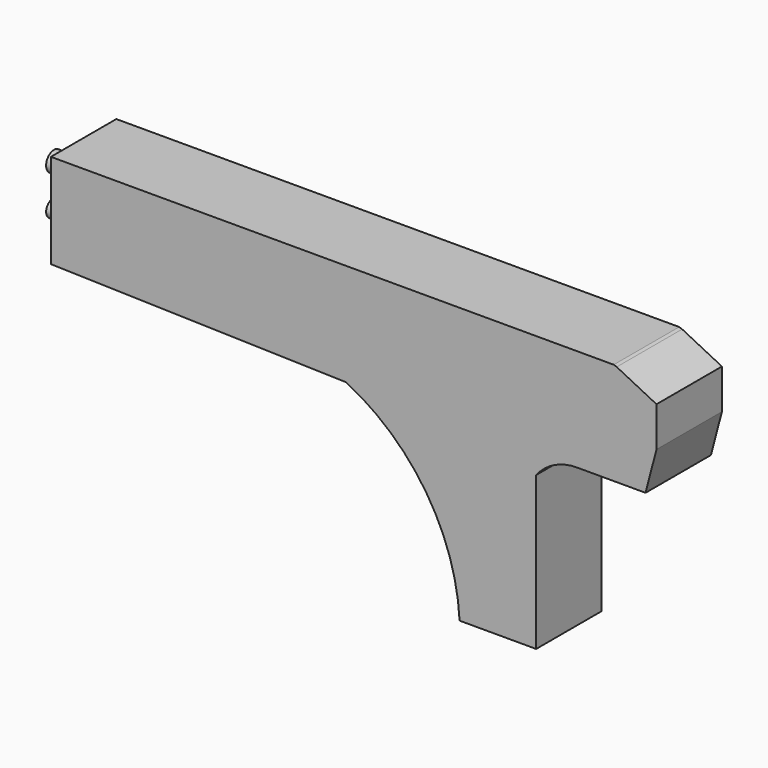
from build123d import *

# Parameters (mm, degrees)
F1_DEPTH = 17.526
F2_R     = 2.11459
F2_R_2   = 1.828308
F3_DEPTH = 6.35


with BuildPart() as f1:
    # F0 (on Front) → F1 (new body)
    with BuildSketch(Plane.XZ):
        with BuildLine():
            ThreePointArc((12.356936, -14.171695), (20.810401, -27.063904), (24.290653, -42.082492))
            Line((24.290653, -42.082492), (40.697493, -42.082492))
            Line((40.697493, -42.082492), (40.697493, -9.268802))
            ThreePointArc((40.697493, -9.268802), (44.57356, -6.129463), (49.433608, -5.007284))
            Line((49.433608, -5.007284), (64.135849, -5.007284))
            Line((64.135849, -5.007284), (66.479683, 3.941904))
            Line((66.479683, 3.941904), (66.479683, 12.464941))
            Line((66.479683, 12.464941), (57.956647, 16.726458))
            Line((57.956647, 16.726458), (57.317417, 16.939534))
            Line((57.317417, 16.939534), (-63.28354, 16.939534))
            Line((-63.28354, 16.939534), (-63.28354, -3.302676))
            Line((-63.28354, -3.302676), (-4.039772, -4.898468))
            Line((-4.039772, -4.898468), (0, -5.007284))
            ThreePointArc((0, -5.007284), (6.582655, -9.044499), (12.356936, -14.171695))
        make_face()
    extrude(amount=F1_DEPTH)

    # F2 (on face) → F3 (join)
    with BuildSketch(Plane(origin=(-63.28354, 0, 0), x_dir=(0, -1, 0), z_dir=(-1, 0, 0))):
        with Locations((8.763, 10.517745)):
            Circle(F2_R)
        with Locations((9.03319, 1.771447)):
            Circle(F2_R_2)
    extrude(amount=F3_DEPTH)


solid = f1.part
